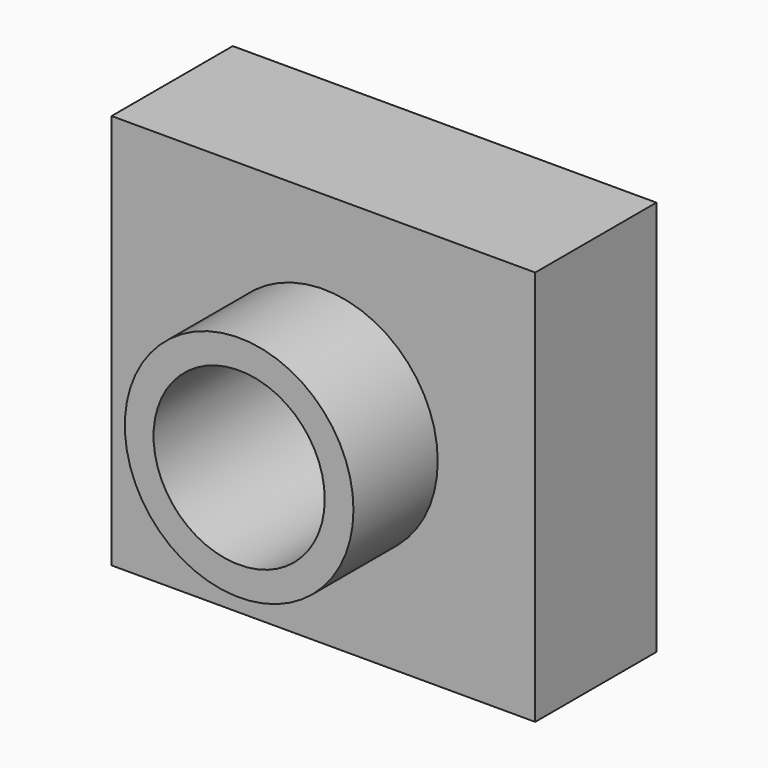
from build123d import *

# Parameters (mm, degrees)
F0_W     = 102.1444201469
F0_H     = 95.3922867775
F1_DEPTH = 25.4
F2_R     = 27.5630659773
F4_DEPTH = 25.4
F5_R     = 20.638877023
F6_DEPTH = 50.801
F3_DEPTH = 11.1171808094


with BuildPart() as f1:
    # F0 (on Front) → F1 (new body)
    with BuildSketch(Plane.XZ):
        Rectangle(F0_W, F0_H)
    extrude(amount=F1_DEPTH)

    # F2 (on face) → F4 (join)
    with BuildSketch(Plane.XZ.offset(25.4)):
        Circle(F2_R)
    extrude(amount=F4_DEPTH)

    # F5 (on face) → F6 (cut, through all)
    with BuildSketch(Plane.XZ.offset(50.8)):
        Circle(F5_R)
    extrude(amount=-F6_DEPTH, mode=Mode.SUBTRACT)

    # F3 (add): a face of the model
    f3_faces = [f1.faces().sort_by_distance(p)[0] for p in [
        (0, 0, -46.2985321787),
    ]]
    extrude(f3_faces, amount=F3_DEPTH)


solid = f1.part
